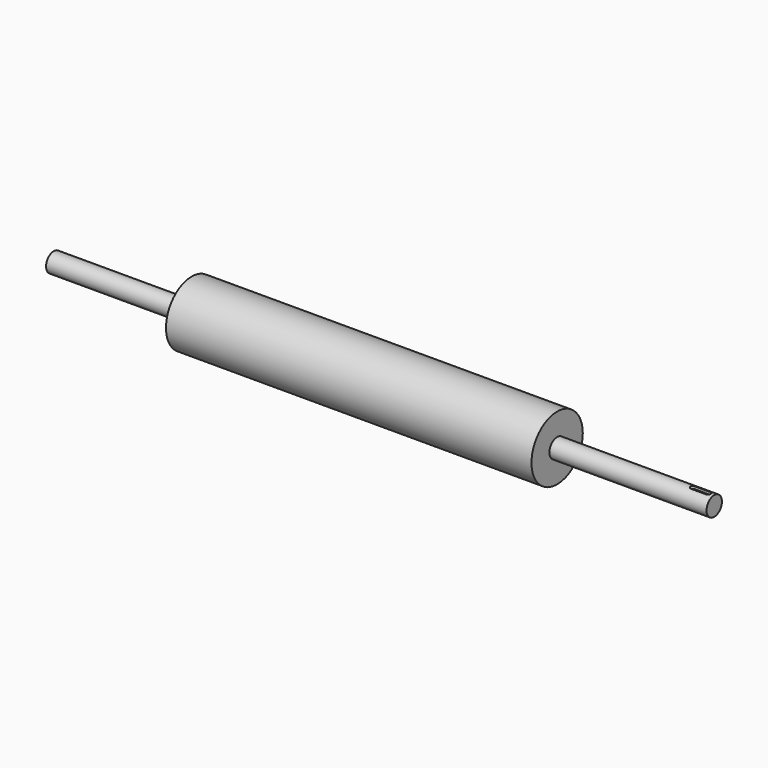
from build123d import *

# Parameters (mm, degrees)
F0_R     = 50
F1_DEPTH = 570
F2_R     = 15
F3_DEPTH = 215
F4_R     = 15
F5_DEPTH = 245
F8_DEPTH = 4.5


with BuildPart() as f1:
    # F0 (on Right) → F1 (new body)
    with BuildSketch(Plane.YZ):
        Circle(F0_R)
    extrude(amount=F1_DEPTH)

    # F2 (on face) → F3 (join)
    with BuildSketch(Plane(origin=(0, 0, 0), x_dir=(0, -1, 0), z_dir=(-1, 0, 0))):
        Circle(F2_R)
    extrude(amount=F3_DEPTH)

    # F4 (on face) → F5 (join)
    with BuildSketch(Plane.YZ.offset(570)):
        Circle(F4_R)
    extrude(amount=F5_DEPTH)

    # F7 (on offset) → F8 (cut)
    with BuildSketch(Plane.XY.offset(15)):
        with BuildLine():
            ThreePointArc((810, 0), (808.828427, 2.828427), (806, 4))
            Line((806, 4), (782, 4))
            ThreePointArc((782, 4), (779.171573, 2.828427), (778, 0))
            ThreePointArc((778, 0), (779.171573, -2.828427), (782, -4))
            Line((782, -4), (806, -4))
            ThreePointArc((806, -4), (808.828427, -2.828427), (810, 0))
        make_face()
    extrude(amount=-F8_DEPTH, mode=Mode.SUBTRACT)


solid = f1.part
